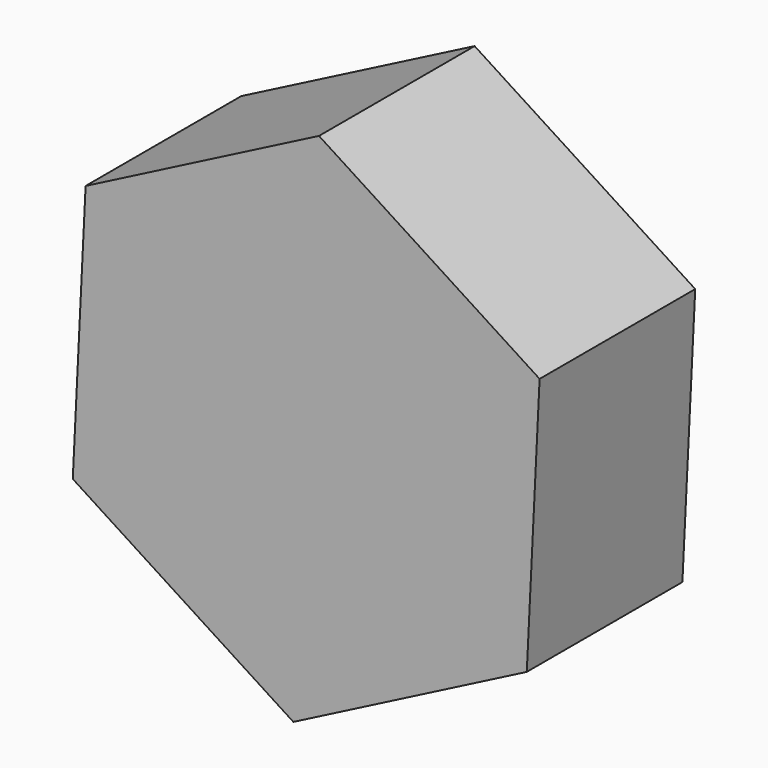
from build123d import *

# Parameters (mm, degrees)
F1_DEPTH = 25.4
F2_R     = 16.132222
F3_DEPTH = 25.4


with BuildPart() as f1:
    # F0 (on Front) → F1 (new body)
    with BuildSketch(Plane.XZ):
        Polygon((-1.675153, -34.228141), (28.804863, -18.564796), (30.480016, 15.663345), (1.675153, 34.228141), (-28.804863, 18.564796), (-30.480016, -15.663345), align=None)
    extrude(amount=F1_DEPTH)

    # F2 (on Front) → F3 (join)
    with BuildSketch(Plane.XZ):
        Circle(F2_R)
    extrude(amount=F3_DEPTH)


solid = f1.part
